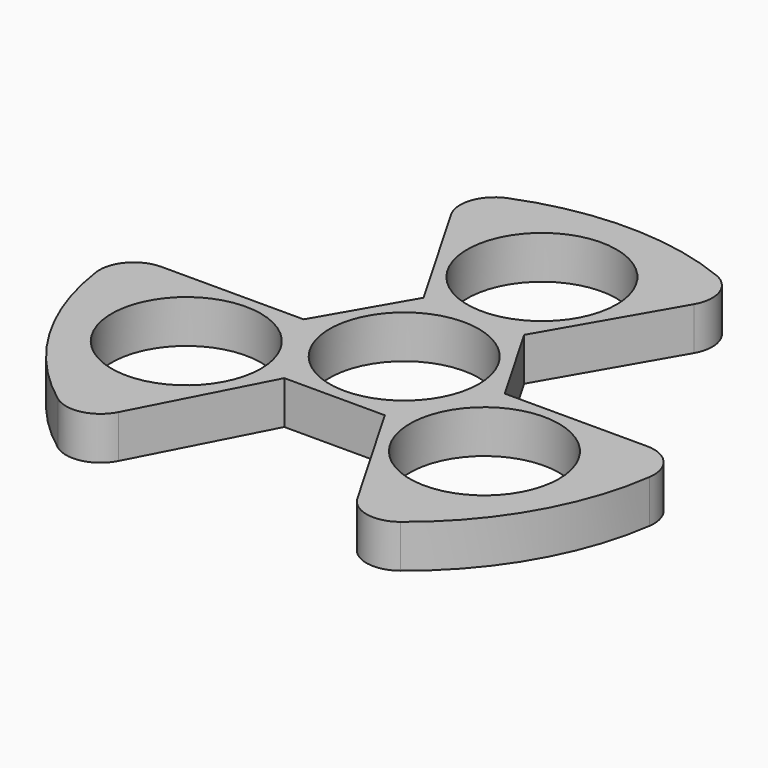
from build123d import *

# Parameters (mm, degrees)
F0_R     = 11.0109
F1_DEPTH = 6.35
F2_R     = 5.08
F3_R     = 5.08
F4_R     = 5.08
F5_R     = 5.08
F6_R     = 5.08
F7_R     = 5.08


with BuildPart() as f1:
    # F0 (on Top) → F1 (new body)
    with BuildSketch(Plane.XY):
        Polygon((7.417982, -12.848321), (14.835964, 0), (7.417982, 12.848321), (-7.417982, 12.848321), (-14.835964, 0), (-7.417982, -12.848321), align=None)
        Circle(F0_R, mode=Mode.SUBTRACT)
        with BuildLine():
            ThreePointArc((20.6375, -35.745199), (35.745199, -20.6375), (41.275, 0))
            Line((41.275, 0), (14.835964, 0))
            Line((14.835964, 0), (7.417982, -12.848321))
            Line((7.417982, -12.848321), (20.6375, -35.745199))
        make_face()
        with Locations((21.997045, -12.7)):
            Circle(F0_R, mode=Mode.SUBTRACT)
        with BuildLine():
            ThreePointArc((-41.275, 0), (-35.440503, -21.156474), (-19.586502, -36.331729))
            Line((-19.586502, -36.331729), (-7.417982, -12.848321))
            Line((-7.417982, -12.848321), (-14.835964, 0))
            Line((-14.835964, 0), (-41.275, 0))
        make_face()
        with Locations((-21.997045, -12.7)):
            Circle(F0_R, mode=Mode.SUBTRACT)
        with BuildLine():
            Line((7.417982, 12.848321), (20.6375, 35.745199))
            ThreePointArc((20.6375, 35.745199), (0, 41.275), (-20.6375, 35.745199))
            Line((-20.6375, 35.745199), (-7.417982, 12.848321))
            Line((-7.417982, 12.848321), (7.417982, 12.848321))
        make_face()
        with Locations((0, 25.4)):
            Circle(F0_R, mode=Mode.SUBTRACT)
    extrude(amount=F1_DEPTH)

    # F2
    f2_edges = [f1.edges().sort_by_distance(p)[0] for p in [
        (-19.586502, -36.331729, 3.175),
    ]]
    fillet(f2_edges, radius=F2_R)

    # F3
    f3_edges = [f1.edges().sort_by_distance(p)[0] for p in [
        (20.6375, -35.745199, 3.175),
    ]]
    fillet(f3_edges, radius=F3_R)

    # F4
    f4_edges = [f1.edges().sort_by_distance(p)[0] for p in [
        (-41.275, 0, 3.175),
    ]]
    fillet(f4_edges, radius=F4_R)

    # F5
    f5_edges = [f1.edges().sort_by_distance(p)[0] for p in [
        (-20.6375, 35.745199, 3.175),
    ]]
    fillet(f5_edges, radius=F5_R)

    # F6
    f6_edges = [f1.edges().sort_by_distance(p)[0] for p in [
        (41.275, 0, 3.175),
    ]]
    fillet(f6_edges, radius=F6_R)

    # F7
    f7_edges = [f1.edges().sort_by_distance(p)[0] for p in [
        (20.6375, 35.745199, 3.175),
    ]]
    fillet(f7_edges, radius=F7_R)


solid = f1.part
